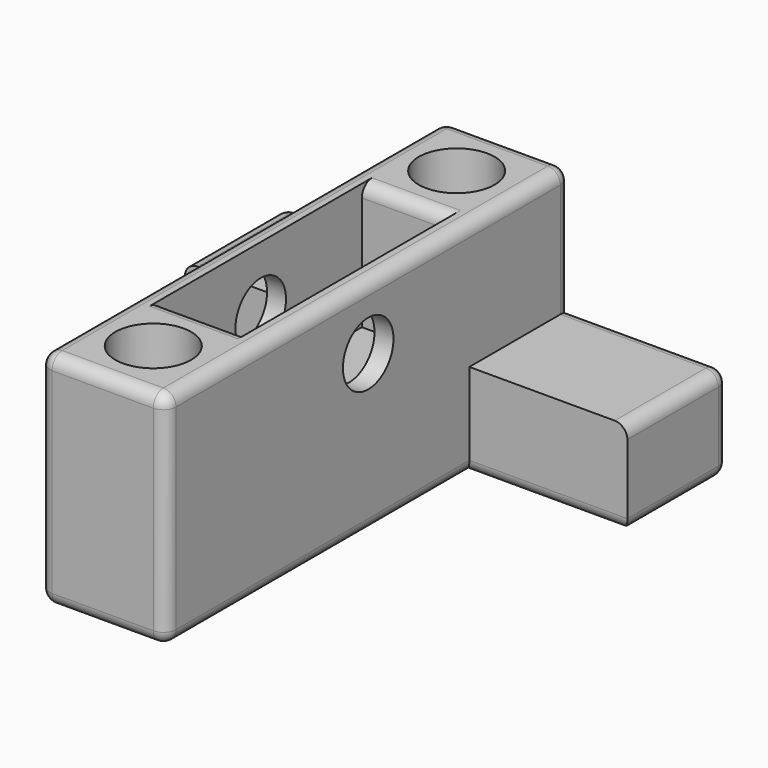
from build123d import *

# Parameters (mm, degrees)
F1_DEPTH        = 15
F2_W            = 20
F2_H            = 20
F3_DEPTH        = 20
F5_DEPTH        = 15
F6_W            = 20
F6_H            = 20
F7_DEPTH        = 20
F9_DEPTH        = 15
F10_W           = 3
F10_H           = 40
F11_DEPTH       = 20
F12_R           = 5
F13_DEPTH       = 25
F14_R           = 2
F15_R           = 2
F16_R           = 2
F17_R           = 2
F19_D           = 3.1
F19_DEPTH       = 6
F19_CBORE_D     = 5
F19_CBORE_DEPTH = 2


with BuildPart() as f1:
    # F0 (on Top) → F1 (new body)
    with BuildSketch(Plane.XY):
        Polygon((-20, 0), (0, 0), (0, 60), (25, 60), (25, 80), (-45, 80), (-45, 60), (-20, 60), align=None)
    extrude(amount=F1_DEPTH)

    # F2 (on face) → F3 (join)
    with BuildSketch(Plane.XY.offset(15)):
        with Locations((-10, 10)):
            Rectangle(F2_W, F2_H)
        with Locations((-10, 10)):
            Rectangle(F2_W, F2_H)
    extrude(amount=F3_DEPTH)

    # F4 (on face) → F5 (cut)
    with BuildSketch(Plane.XY.offset(35)):
        with BuildLine():
            ThreePointArc((-10, 4), (-5.757359, 5.757359), (-4, 10))
            ThreePointArc((-4, 10), (-14.242641, 14.242641), (-10, 4))
        make_face()
    extrude(amount=-F5_DEPTH, mode=Mode.SUBTRACT)

    # F6 (on face) → F7 (join)
    with BuildSketch(Plane.XY.offset(15)):
        with Locations((-10, 70)):
            Rectangle(F6_W, F6_H)
    extrude(amount=F7_DEPTH)

    # F8 (on face) → F9 (cut)
    with BuildSketch(Plane.XY.offset(35)):
        with BuildLine():
            ThreePointArc((-10, 64), (-5.757359, 65.757359), (-4, 70))
            ThreePointArc((-4, 70), (-14.242641, 74.242641), (-10, 64))
        make_face()
    extrude(amount=-F9_DEPTH, mode=Mode.SUBTRACT)

    # F10 (on face) → F11 (join)
    with BuildSketch(Plane.XY.offset(15)):
        with Locations((-1.5, 40)):
            Rectangle(F10_W, F10_H)
        with Locations((-18.5, 40)):
            Rectangle(F10_W, F10_H)
    extrude(amount=F11_DEPTH)

    # F12 (on face) → F13 (cut)
    with BuildSketch(Plane(origin=(-20, 0, 0), x_dir=(0, -1, 0), z_dir=(-1, 0, 0))):
        with Locations((-40, 25)):
            Circle(F12_R)
    extrude(amount=-F13_DEPTH, mode=Mode.SUBTRACT)

    # F14
    f14_edges = [f1.edges().sort_by_distance(p)[0] for p in [
        (-20, 40, 35),
        (0, 40, 35),
    ]]
    fillet(f14_edges, radius=F14_R)

    # F15
    f15_edges = [f1.edges().sort_by_distance(p)[0] for p in [
        (-10, 20, 35),
        (-10, 60, 35),
        (-10, 80, 35),
        (-10, 0, 35),
    ]]
    fillet(f15_edges, radius=F15_R)

    # F16
    f16_edges = [f1.edges().sort_by_distance(p)[0] for p in [
        (-1, 80, 15),
        (12.5, 80, 15),
        (-19, 80, 15),
        (-32.5, 80, 15),
    ]]
    fillet(f16_edges, radius=F16_R)

    # F17
    f17_edges = [f1.edges().sort_by_distance(p)[0] for p in [
        (-20, 31, 0),
        (-32.5, 60, 0),
        (12.5, 60, 0),
        (-45, 70, 0),
        (25, 70, 0),
        (-10, 80, 0),
        (-45, 80, 6.5),
        (25, 80, 6.5),
    ]]
    fillet(f17_edges, radius=F17_R)

    # F19
    with Locations(Plane(origin=(-20, 0, 0), x_dir=(0, -1, 0), z_dir=(-1, 0, 0))):
        with Locations((-70, 26), (-9, 26)):
            CounterBoreHole(F19_D / 2, F19_CBORE_D / 2, F19_CBORE_DEPTH, depth=F19_DEPTH)


solid = f1.part
